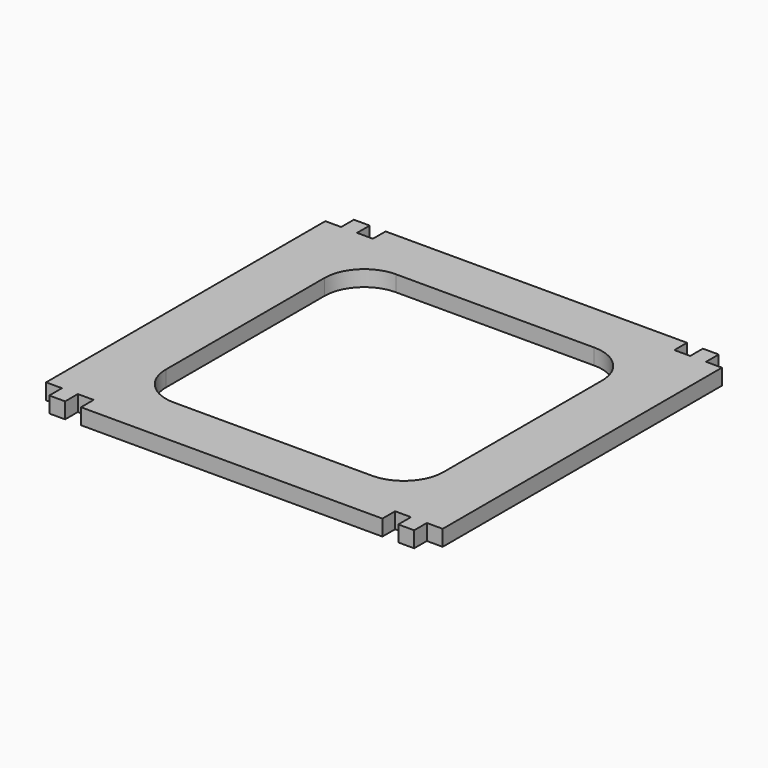
from build123d import *

# Parameters (mm, degrees)
F0_W     = 100
F0_H     = 96
F1_DEPTH = 4
F2_W     = 4
F2_H     = 4
F3_DEPTH = 4
F5_DEPTH = 4


with BuildPart() as f1:
    # F0 (on Top) → F1 (new body)
    with BuildSketch(Plane.XY):
        with Locations((-50, 48)):
            Rectangle(F0_W, F0_H)
    extrude(amount=F1_DEPTH)

    # F2 (on face) → F3 (cut, through all)
    with BuildSketch(Plane.XY.offset(4)):
        with Locations((-2, 2)):
            Rectangle(F2_W, F2_H)
        with Locations((-10, 2)):
            Rectangle(F2_W, F2_H)
        with Locations((-2, 94)):
            Rectangle(F2_W, F2_H)
        with Locations((-10, 94)):
            Rectangle(F2_W, F2_H)
        with Locations((-98, 94)):
            Rectangle(F2_W, F2_H)
        with Locations((-90, 2)):
            Rectangle(F2_W, F2_H)
        with Locations((-98, 2)):
            Rectangle(F2_W, F2_H)
        with Locations((-90, 94)):
            Rectangle(F2_W, F2_H)
    extrude(amount=-F3_DEPTH, mode=Mode.SUBTRACT)

    # F4 (on face) → F5 (cut, through all)
    with BuildSketch(Plane.XY.offset(4)):
        with BuildLine():
            ThreePointArc((-85, 23), (-82.071068, 15.928932), (-75, 13))
            Line((-75, 13), (-25, 13))
            ThreePointArc((-25, 13), (-17.928932, 15.928932), (-15, 23))
            Line((-15, 23), (-15, 73))
            ThreePointArc((-15, 73), (-17.928932, 80.071068), (-25, 83))
            Line((-25, 83), (-75, 83))
            ThreePointArc((-75, 83), (-82.071068, 80.071068), (-85, 73))
            Line((-85, 73), (-85, 23))
        make_face()
    extrude(amount=-F5_DEPTH, mode=Mode.SUBTRACT)


solid = f1.part
